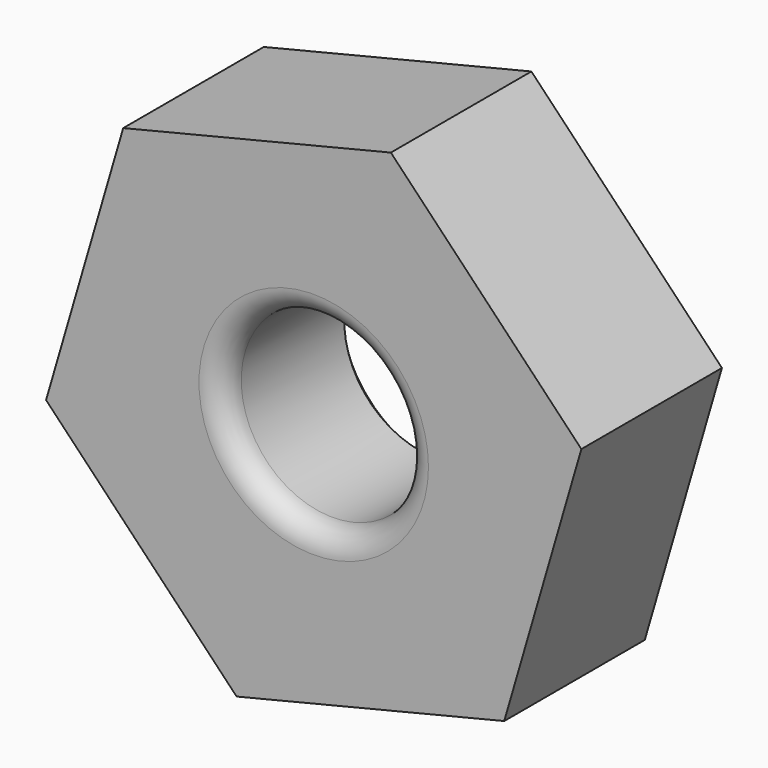
from build123d import *

# Parameters (mm, degrees)
F0_R     = 19.744958
F1_DEPTH = 19.005943
F2_R     = 5.08
F3_SIZE  = 5.08


with BuildPart() as f1:
    # F0 (on Front) → F1 (new body, symmetric)
    with BuildSketch(Plane.XZ):
        Polygon((41.21972, -43.068756), (57.908497, 14.162947), (16.688777, 57.231702), (-41.21972, 43.068756), (-57.908497, -14.162947), (-16.688777, -57.231702), align=None)
        Circle(F0_R, mode=Mode.SUBTRACT)
    extrude(amount=F1_DEPTH, both=True)

    # F2
    f2_edges = [f1.edges().sort_by_distance(p)[0] for p in [
        (-19.744958, -19.005943, 0),
    ]]
    fillet(f2_edges, radius=F2_R)

    # F3
    f3_edges = [f1.edges().sort_by_distance(p)[0] for p in [
        (-19.744958, 19.005943, 0),
    ]]
    chamfer(f3_edges, length=F3_SIZE)


solid = f1.part
